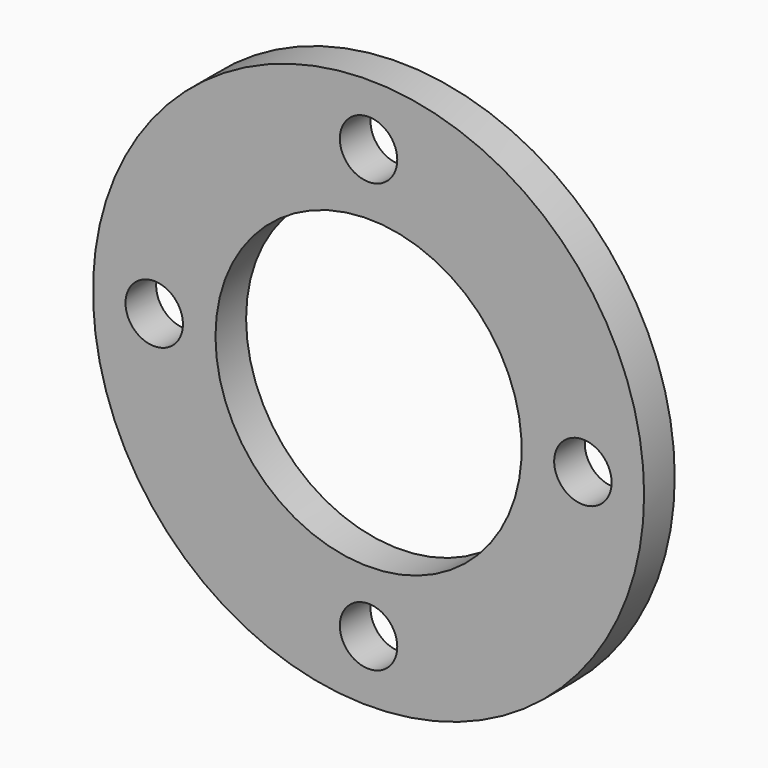
from build123d import *

# Parameters (mm, degrees)
F0_R     = 2.38125
F1_DEPTH = 3.175


with BuildPart() as f1:
    # F0 (on Front) → F1 (new body)
    with BuildSketch(Plane.XZ):
        with BuildLine():
            ThreePointArc((-22.860274, 0), (-0.000274, -22.86), (22.859726, 0))
            ThreePointArc((22.859726, 0), (-0.000274, 22.86), (-22.860274, 0))
        make_face()
        with Locations((0, -17.780274)):
            Circle(F0_R, mode=Mode.SUBTRACT)
        with BuildLine():
            ThreePointArc((-15.399024, 0), (-17.780274, -2.38125), (-20.161524, 0))
            ThreePointArc((-20.161524, 0), (-17.780274, 2.38125), (-15.399024, 0))
        make_face(mode=Mode.SUBTRACT)
        with BuildLine():
            ThreePointArc((12.699726, 0), (-0.000274, -12.7), (-12.700274, 0))
            ThreePointArc((-12.700274, 0), (-0.000274, 12.7), (12.699726, 0))
        make_face(mode=Mode.SUBTRACT)
        with Locations((17.780274, 0)):
            Circle(F0_R, mode=Mode.SUBTRACT)
        with Locations((0, 17.780274)):
            Circle(F0_R, mode=Mode.SUBTRACT)
    extrude(amount=F1_DEPTH)


solid = f1.part
